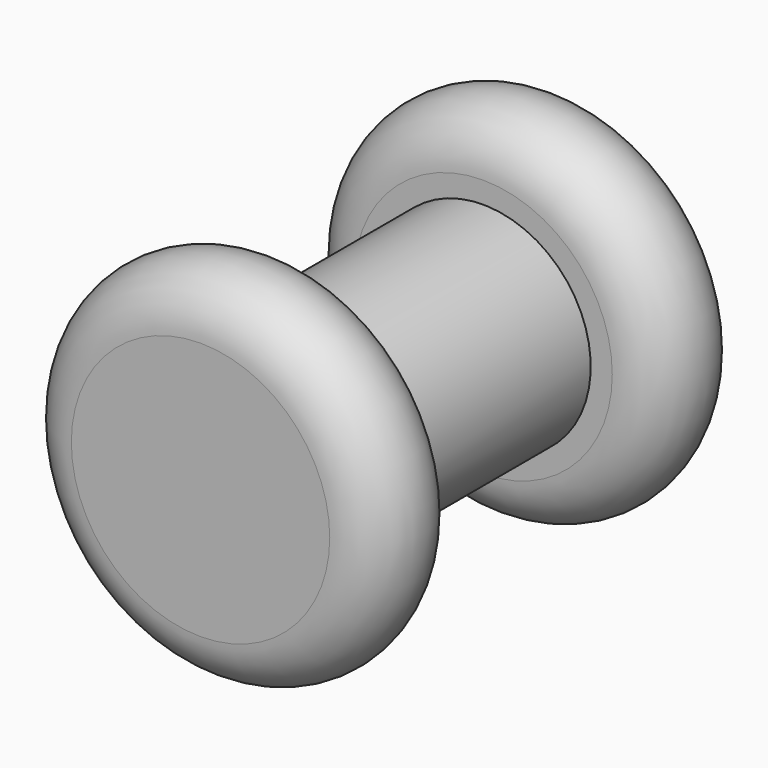
from build123d import *

# Parameters (mm, degrees)
F0_W = 10
F0_H = 23


with BuildPart() as f1:
    # F0 (on Top) → F1 (revolve)
    with BuildSketch(Plane.XY):
        with BuildLine():
            Line((-12, 0), (0, 0))
            Line((0, 0), (0, 9.796296))
            Line((0, 9.796296), (-10, 9.796296))
            Line((-10, 9.796296), (-12, 9.796296))
            ThreePointArc((-12, 9.796296), (-16.898148, 4.898148), (-12, 0))
        make_face()
        with Locations((-5, 21.296296)):
            Rectangle(F0_W, F0_H)
        with BuildLine():
            Line((-10, 32.796296), (0, 32.796296))
            Line((0, 32.796296), (0, 42.592593))
            Line((0, 42.592593), (-12, 42.592593))
            ThreePointArc((-12, 42.592593), (-16.898149, 37.694445), (-12, 32.796296))
            Line((-12, 32.796296), (-10, 32.796296))
        make_face()
    revolve(axis=Axis((0, 21.296296, 0), (0, 1, 0)))


solid = f1.part
